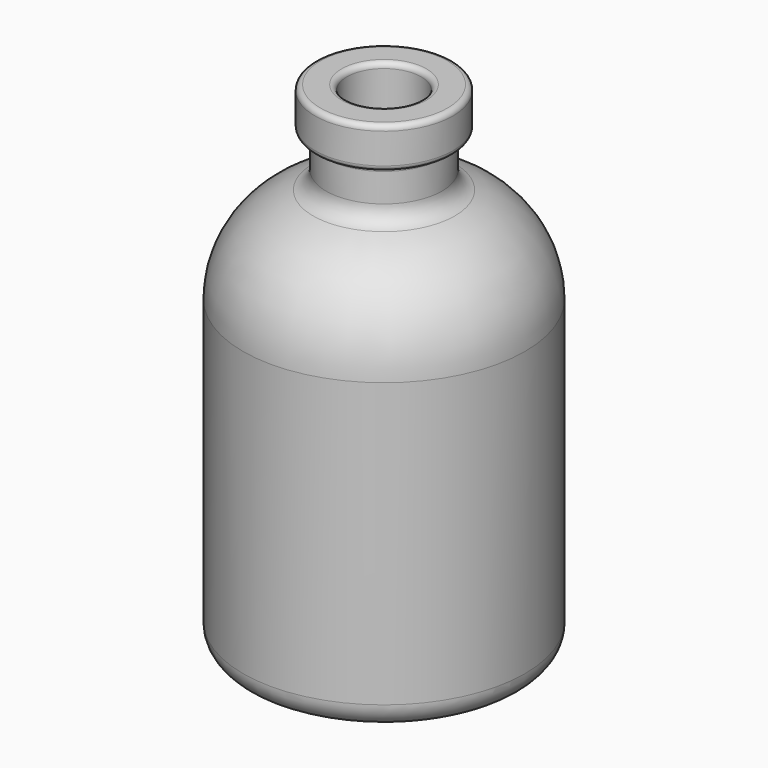
from build123d import *

# Parameters (mm, degrees)
F2_R = 0.508


with BuildPart() as f1:
    # F0 (on Front) → F1 (revolve)
    with BuildSketch(Plane.XZ):
        with BuildLine():
            Line((13.5001, 2.3622), (13.5001, 29.5148))
            ThreePointArc((13.5001, 29.5148), (11.642547, 35.224129), (6.781126, 38.747411))
            ThreePointArc((6.781126, 38.747411), (5.890289, 39.393039), (5.5499, 40.439251))
            Line((5.5499, 40.439251), (5.5499, 43.688))
            Line((5.5499, 43.688), (6.604, 43.688))
            Line((6.604, 43.688), (6.604, 47.625))
            Line((6.604, 47.625), (3.556, 47.625))
            Line((3.556, 47.625), (3.556, 40.580101))
            ThreePointArc((3.556, 40.580101), (4.230271, 38.58054), (5.97771, 37.397603))
            ThreePointArc((5.97771, 37.397603), (10.305983, 34.467558), (11.9761, 29.5148))
            Line((11.9761, 29.5148), (11.9761, 3.052764))
            ThreePointArc((11.9761, 3.052764), (11.675702, 2.446491), (11.011356, 2.318231))
            ThreePointArc((11.011356, 2.318231), (5.555973, 3.435362), (0, 3.81))
            Line((0, 3.81), (0, 1.524))
            ThreePointArc((0, 1.524), (5.300604, 1.163041), (10.50334, 0.086827))
            ThreePointArc((10.50334, 0.086827), (12.566366, 0.480851), (13.5001, 2.3622))
        make_face()
    revolve(axis=Axis((0, 0, 12.401767), (0, 0, 1)))

    # F2
    f2_edges = [f1.edges().sort_by_distance(p)[0] for p in [
        (-5.5499, 0, 43.688),
        (-6.604, 0, 43.688),
        (-6.604, 0, 47.625),
        (-3.556, 0, 47.625),
    ]]
    fillet(f2_edges, radius=F2_R)


solid = f1.part
